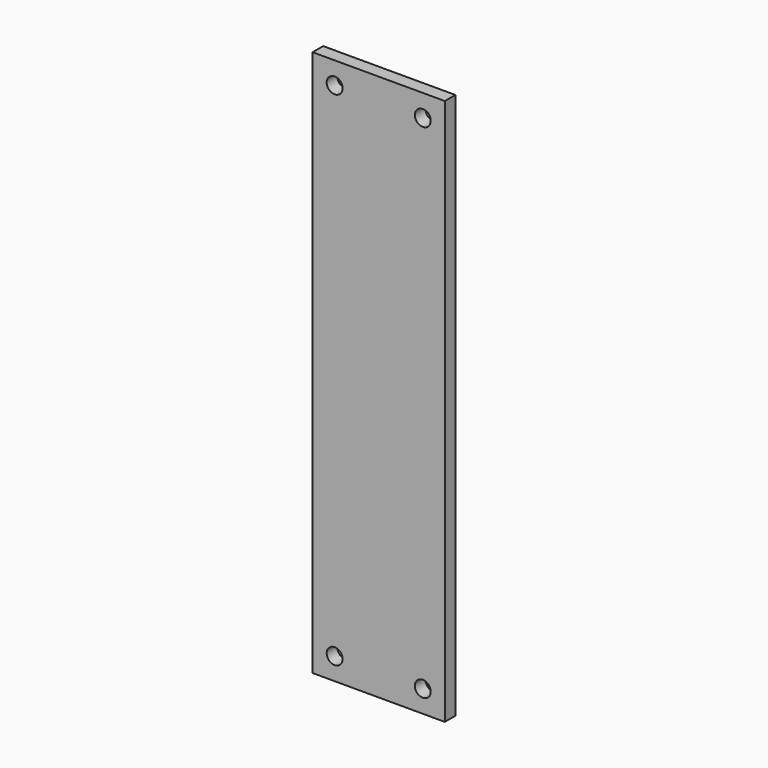
from build123d import *

# Parameters (mm, degrees)
CYLINDER038_R       = 1.8
CYLINDER038_DEPTH   = 10
ARRAY001019_X_COUNT = 2
ARRAY001019_X_PITCH = 20
ARRAY001019_Z_COUNT = 2
ARRAY001019_Z_PITCH = 114
BOX018_W            = 30
BOX018_H            = 3
BOX018_DEPTH        = 124


with BuildPart() as side_connector_hole_array:
    # Cylinder038 → Cylinder038 (new body)
    with BuildSketch(Plane.XZ):
        Circle(CYLINDER038_R)
    extrude(amount=CYLINDER038_DEPTH)

    # Array001019 X: side connector hole array ×2


with BuildPart() as side_connector_hole_array_1:
    add(side_connector_hole_array.part)
    with Locations(*[(i * ARRAY001019_X_PITCH, 0, 0) for i in range(1, ARRAY001019_X_COUNT)]):
        add(side_connector_hole_array.part)

    # Array001019 Z: side connector hole array ×2


with BuildPart() as side_connector_hole_array_2:
    add(side_connector_hole_array_1.part)
    with Locations(*[(0, 0, i * ARRAY001019_Z_PITCH) for i in range(1, ARRAY001019_Z_COUNT)]):
        add(side_connector_hole_array_1.part)


with BuildPart() as side_connector_hole_array_3:
    # Array001019 placement: moved
    add(side_connector_hole_array_2.part.moved(Location((5, 5, 5))))


with BuildPart() as vertical_side_connector_clone002:
    # Box018 → Box018 (new body)
    with BuildSketch(Plane.XY):
        with Locations((15, 1.5)):
            Rectangle(BOX018_W, BOX018_H)
    extrude(amount=BOX018_DEPTH)

    # Cut014: cut side connector hole array
    add(side_connector_hole_array_3.part, mode=Mode.SUBTRACT)


with BuildPart() as vertical_side_connector_clone002_1:
    # Compound001 placement: moved
    add(vertical_side_connector_clone002.part.moved(Location((0, -11, -36))))


with BuildPart() as vertical_side_connector_clone002_2:
    # Clone006 placement: moved
    add(vertical_side_connector_clone002_1.part.moved(Location((0, 6, 2))))


with BuildPart() as vertical_side_connector_clone002_3:
    # Body006 placement: moved
    add(vertical_side_connector_clone002_2.part.moved(Location((114, 95, -2))))


solid = vertical_side_connector_clone002_3.part
